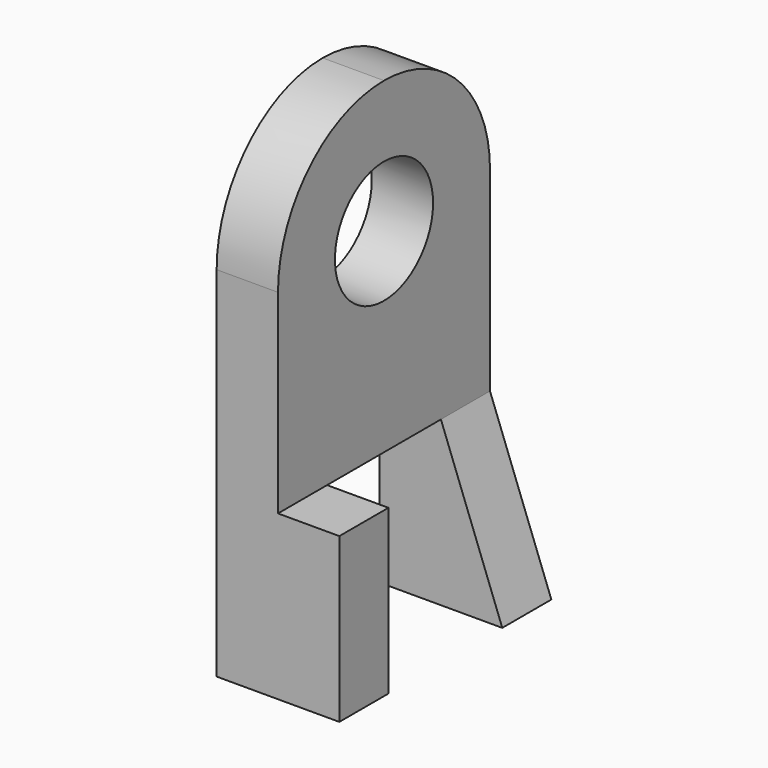
from build123d import *

# Parameters (mm, degrees)
F0_R     = 19.05
F1_DEPTH = 19.05
F2_W     = 19.05
F2_H     = 50.8
F3_DEPTH = 19.05
F5_DEPTH = 19.05


with BuildPart() as f1:
    # F0 (on Right) → F1 (new body)
    with BuildSketch(Plane.YZ):
        with BuildLine():
            ThreePointArc((0, 41.148), (-29.09603, 29.09603), (-41.148, 0))
            Line((-41.148, 0), (-41.148, -111.252))
            Line((-41.148, -111.252), (-22.098, -111.252))
            Line((-22.098, -111.252), (-22.098, -60.452))
            Line((-22.098, -60.452), (22.098, -60.452))
            Line((22.098, -60.452), (22.098, -111.252))
            Line((22.098, -111.252), (41.148, -111.252))
            Line((41.148, -111.252), (41.148, 0))
            ThreePointArc((41.148, 0), (29.09603, 29.09603), (0, 41.148))
        make_face()
        Circle(F0_R, mode=Mode.SUBTRACT)
    extrude(amount=F1_DEPTH)

    # F2 (on face) → F3 (join)
    with BuildSketch(Plane.YZ.offset(19.05)):
        with Locations((-31.623, -85.852)):
            Rectangle(F2_W, F2_H)
    extrude(amount=F3_DEPTH)

    # F4 (on face) → F5 (join)
    with BuildSketch(Plane(origin=(0, 41.148, 0), x_dir=(-1, 0, 0), z_dir=(0, 1, 0))):
        Polygon((-19.05, -60.452), (-38.1, -111.252), (-19.05, -111.252), align=None)
    extrude(amount=-F5_DEPTH)


solid = f1.part
